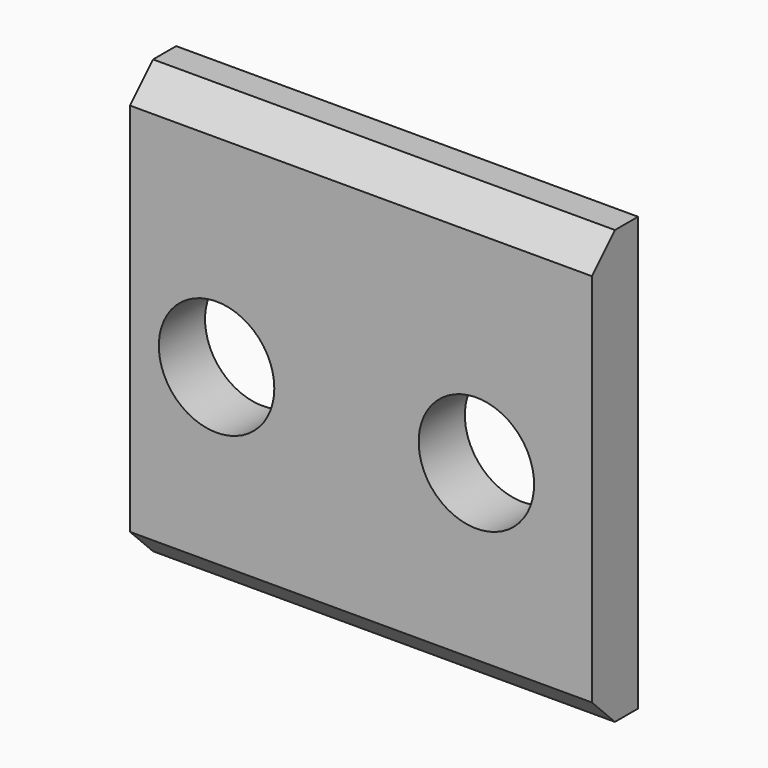
from build123d import *

# Parameters (mm, degrees)
CYLINDER052_R          = 2
CYLINDER052_DEPTH      = 10
CYLINDER052_ROLL_ANGLE = 90
CYLINDER051_R          = 2
CYLINDER051_DEPTH      = 10
CYLINDER051_ROLL_ANGLE = 90
BOX013_W               = 16
BOX013_H               = 2
BOX013_DEPTH           = 15
CHAMFER016_SIZE        = 1


with BuildPart() as cilindro049:
    # Cylinder052 → Cylinder052 (new body)
    with BuildSketch(Plane.XY):
        Circle(CYLINDER052_R)
    extrude(amount=CYLINDER052_DEPTH)


with BuildPart() as cilindro049_1:
    # Cylinder052 roll: moved
    add(cilindro049.part.rotate(Axis((0, 0, 0), (1, 0, 0)), CYLINDER052_ROLL_ANGLE))


with BuildPart() as cilindro049_2:
    # Cylinder052 placement: moved
    add(cilindro049_1.part.moved(Location((76, -37, 30))))


with BuildPart() as fusion012:
    # Cylinder051 → Cylinder051 (new body)
    with BuildSketch(Plane.XY):
        Circle(CYLINDER051_R)
    extrude(amount=CYLINDER051_DEPTH)


with BuildPart() as fusion012_1:
    # Cylinder051 roll: moved
    add(fusion012.part.rotate(Axis((0, 0, 0), (1, 0, 0)), CYLINDER051_ROLL_ANGLE))


with BuildPart() as fusion012_2:
    # Cylinder051 placement: moved
    add(fusion012_1.part.moved(Location((67, -37, 30))))

    # Fusion012: union Cilindro049
    add(cilindro049_2.part)


with BuildPart() as obj1:
    # Box013 → Box013 (new body)
    with BuildSketch(Plane(origin=(64, -43, 23), x_dir=(1, 0, 0), z_dir=(0, 0, 1))):
        with Locations((8, 1)):
            Rectangle(BOX013_W, BOX013_H)
    extrude(amount=BOX013_DEPTH)

    # Cut040: cut Fusion012
    add(fusion012_2.part, mode=Mode.SUBTRACT)


with BuildPart() as obj1_1:
    # Cut040 placement: moved
    add(obj1.part.moved(Location((0, -7, -2))))

    # Chamfer016
    chamfer016_edges = [obj1_1.edges().sort_by_distance(p)[0] for p in [
        (72, -50, 21),
        (72, -50, 36),
    ]]
    chamfer(chamfer016_edges, length=CHAMFER016_SIZE)


solid = obj1_1.part
